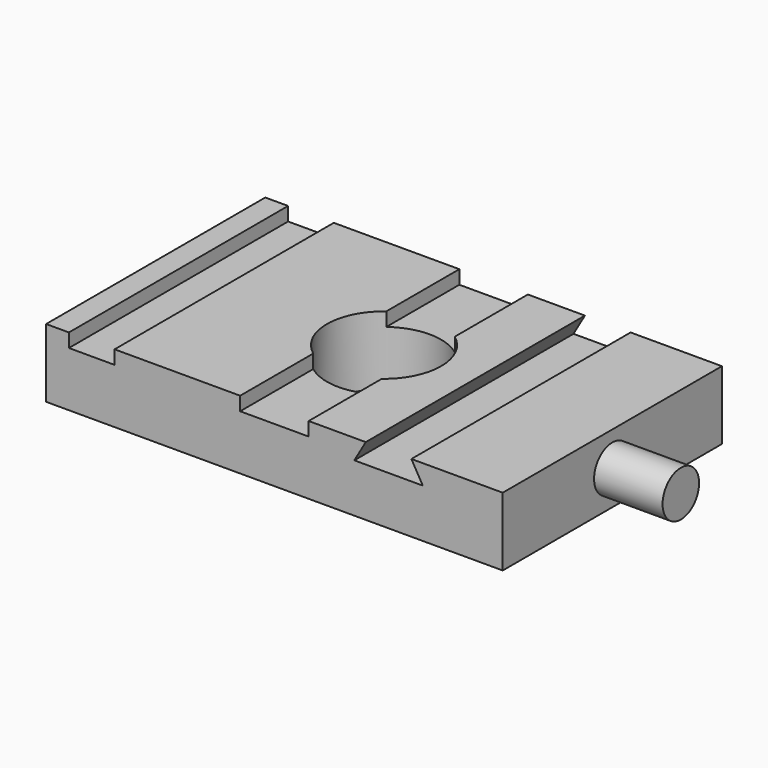
from build123d import *

# Parameters (mm, degrees)
F0_W     = 100
F0_H     = 60
F0_R     = 12.5
F1_DEPTH = 15
F2_W     = 10
F2_H     = 60
F3_DEPTH = 3
F5_DEPTH = 60.001
F6_R     = 5
F7_DEPTH = 15


with BuildPart() as f1:
    # F0 (on Top) → F1 (new body)
    with BuildSketch(Plane.XY):
        Rectangle(F0_W, F0_H)
        Circle(F0_R, mode=Mode.SUBTRACT)
    extrude(amount=F1_DEPTH)

    # F2 (on face) → F3 (cut)
    with BuildSketch(Plane.XY.offset(15)):
        with BuildLine():
            Line((7.5, 30), (-7.5, 30))
            Line((-7.5, 30), (-7.5, 10))
            ThreePointArc((-7.5, 10), (0, 12.5), (7.5, 10))
            Line((7.5, 10), (7.5, 30))
        make_face()
        with BuildLine():
            Line((-7.5, -10), (-7.5, -30))
            Line((-7.5, -30), (7.5, -30))
            Line((7.5, -30), (7.5, -10))
            ThreePointArc((7.5, -10), (0, -12.5), (-7.5, -10))
        make_face()
        with Locations((-40, 0)):
            Rectangle(F2_W, F2_H)
    extrude(amount=-F3_DEPTH, mode=Mode.SUBTRACT)

    # F4 (on face) → F5 (cut, through all)
    with BuildSketch(Plane.XZ.offset(30)):
        Polygon((30, 15), (20, 15), (17.5, 10.669873), (32.5, 10.669873), align=None)
    extrude(amount=-F5_DEPTH, mode=Mode.SUBTRACT)

    # F6 (on face) → F7 (join)
    with BuildSketch(Plane.YZ.offset(50)):
        with Locations((0, 7.5)):
            Circle(F6_R)
    extrude(amount=F7_DEPTH)


solid = f1.part
